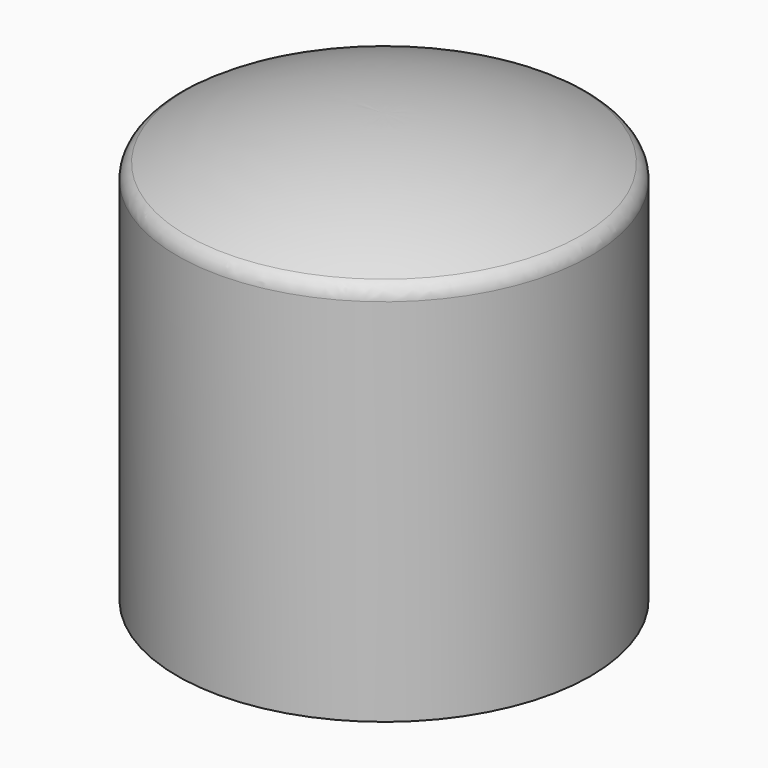
from build123d import *

# Parameters (mm, degrees)
F2_SIZE = 1
F3_R    = 1


with BuildPart() as f1:
    # F0 (on Front) → F1 (revolve)
    with BuildSketch(Plane.XZ):
        with BuildLine():
            Line((-12.5, 22.996796), (-12.5, 0))
            Line((-12.5, 0), (-3, 0))
            Line((-3, 0), (-3, 15))
            Line((-3, 15), (0, 15))
            Line((0, 15), (0, 25.913464))
            ThreePointArc((0, 25.913464), (-6.422136, 25.192857), (-12.5, 22.996796))
        make_face()
    revolve(axis=Axis((0, 0, 20.456732), (0, 0, 1)))

    # F2
    f2_edges = [f1.edges().sort_by_distance(p)[0] for p in [
        (3, 0, 0),
    ]]
    chamfer(f2_edges, length=F2_SIZE)

    # F3
    f3_edges = [f1.edges().sort_by_distance(p)[0] for p in [
        (12.5, 0, 22.996796),
    ]]
    fillet(f3_edges, radius=F3_R)


solid = f1.part
